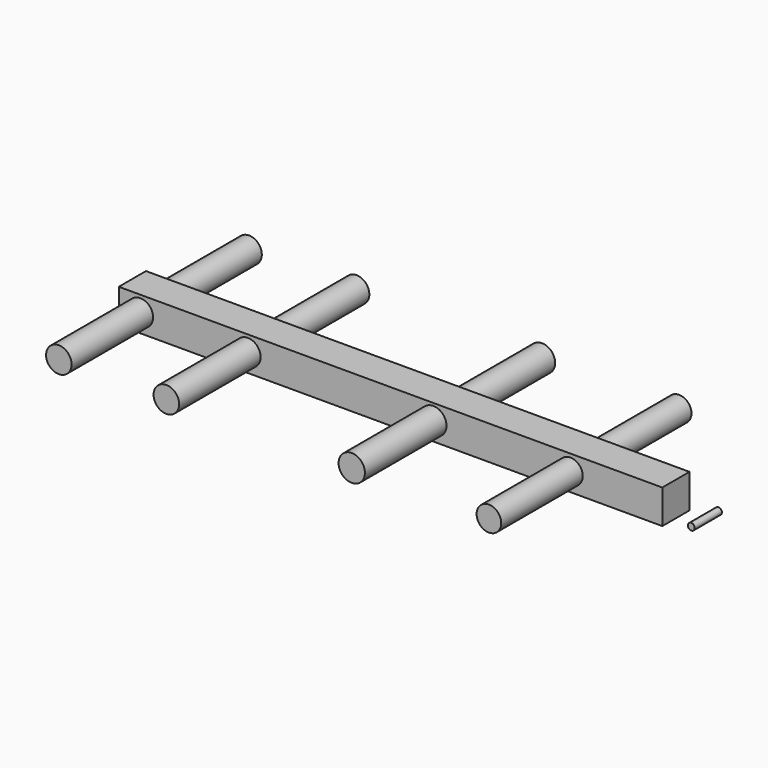
from build123d import *

# Parameters (mm, degrees)
F0_W          = 406.4
F0_H          = 25.4
F0_R          = 9.531046
F0_R_2        = 9.538208
F0_R_3        = 9.857657
F0_R_4        = 9.215963
F0_R_5        = 2.554145
F1_DEPTH      = 25.4
F2_R          = 9.215963
F2_R_2        = 9.857657
F2_R_3        = 9.538208
F2_R_4        = 9.531046
F3_DEPTH      = 76.2
F3_DEPTH_BACK = 101.6


with BuildPart() as f1:
    # F0 (on Front) → F1 (new body)
    with BuildSketch(Plane.XZ):
        with Locations((-8.603327, 6.056766)):
            Rectangle(F0_W, F0_H)
        with Locations((-195.689216, 6.937694)):
            Circle(F0_R, mode=Mode.SUBTRACT)
        with Locations((-115.292259, 6.937694)):
            Circle(F0_R_2, mode=Mode.SUBTRACT)
        with Locations((23.33816, 6.937694)):
            Circle(F0_R_3, mode=Mode.SUBTRACT)
        with Locations((125.898615, 6.937694)):
            Circle(F0_R_4, mode=Mode.SUBTRACT)
        with Locations((216.290861, 0)):
            Circle(F0_R_5)
    extrude(amount=F1_DEPTH)


with BuildPart() as f3:
    # F2 (on face) → F3 (new body, two sides)
    with BuildSketch(Plane(origin=(0, 0, 0), x_dir=(-1, 0, 0), z_dir=(0, 1, 0))) as f3_sk:
        with Locations((-125.898615, 6.937694)):
            Circle(F2_R)
        with Locations((-23.33816, 6.937694)):
            Circle(F2_R_2)
        with Locations((115.292259, 6.937694)):
            Circle(F2_R_3)
        with Locations((195.689216, 6.937694)):
            Circle(F2_R_4)
    extrude(amount=F3_DEPTH)
    extrude(f3_sk.sketch, amount=-F3_DEPTH_BACK)


solid = Compound([f1.part, f3.part])
